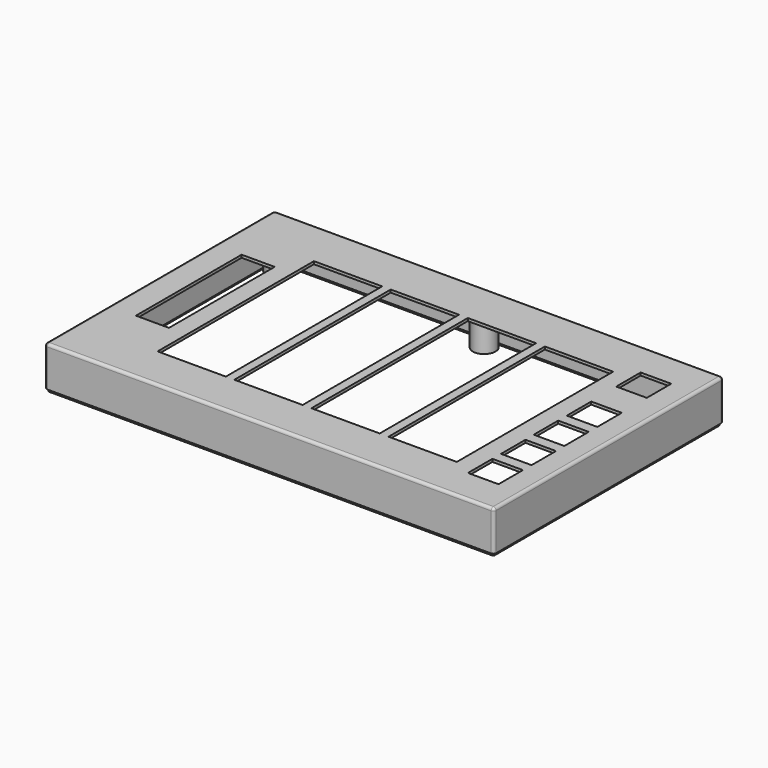
from build123d import *

# Parameters (mm, degrees)
EXTRUDE001_DEPTH  = 1.27
TUBE001_R         = 5.2324
TUBE001_R_2       = 2.2606
TUBE001_DEPTH     = 17.272
TUBE002_R         = 5.2324
TUBE002_R_2       = 2.2606
TUBE002_DEPTH     = 17.272
TUBE003_R         = 5.2324
TUBE003_R_2       = 2.2606
TUBE003_DEPTH     = 17.272
TUBE013_R         = 5.2324
TUBE013_R_2       = 2.2606
TUBE013_DEPTH     = 17.272
TUBE012_R         = 5.2324
TUBE012_R_2       = 2.2606
TUBE012_DEPTH     = 17.272
TUBE_R            = 5.2324
TUBE_R_2          = 2.2606
TUBE_DEPTH        = 17.272
BOX013_W          = 14.097
BOX013_H          = 14.097
BOX013_DEPTH      = 1.27
BOX012_W          = 14.097
BOX012_H          = 14.097
BOX012_DEPTH      = 1.27
BOX011_W          = 14.097
BOX011_H          = 14.097
BOX011_DEPTH      = 1.27
BOX010_W          = 14.097
BOX010_H          = 14.097
BOX010_DEPTH      = 1.27
BOX014_W          = 14.097
BOX014_H          = 14.097
BOX014_DEPTH      = 1.27
BOX009_W          = 15.24
BOX009_H          = 60.96
BOX009_DEPTH      = 1.27
BOX005_W          = 31.496
BOX005_H          = 90.17
BOX005_DEPTH      = 1.27
BOX006_W          = 31.496
BOX006_H          = 90.17
BOX006_DEPTH      = 1.27
BOX007_W          = 31.496
BOX007_H          = 90.17
BOX007_DEPTH      = 1.27
BOX008_W          = 31.496
BOX008_H          = 90.17
BOX008_DEPTH      = 1.27
BOX001_W          = 21.59
BOX001_H          = 5.08
BOX001_DEPTH      = 0.635
BOX002_W          = 21.59
BOX002_H          = 5.08
BOX002_DEPTH      = 0.635
BOX003_W          = 21.59
BOX003_H          = 5.08
BOX003_DEPTH      = 0.635
BOX004_W          = 21.59
BOX004_H          = 5.08
BOX004_DEPTH      = 0.635
CYLINDER_R        = 2.54
CYLINDER_DEPTH    = 0.635
CYLINDER001_R     = 2.54
CYLINDER001_DEPTH = 0.635
CYLINDER002_R     = 2.54
CYLINDER002_DEPTH = 0.635
CYLINDER003_R     = 2.54
CYLINDER003_DEPTH = 0.635
CYLINDER004_R     = 2.54
CYLINDER004_DEPTH = 0.635
CYLINDER005_R     = 2.54
CYLINDER005_DEPTH = 0.635
CYLINDER006_R     = 2.54
CYLINDER006_DEPTH = 0.635
CYLINDER007_R     = 2.54
CYLINDER007_DEPTH = 0.635
CYLINDER008_R     = 2.54
CYLINDER008_DEPTH = 0.635
CYLINDER009_R     = 2.54
CYLINDER009_DEPTH = 0.635
CYLINDER010_R     = 2.54
CYLINDER010_DEPTH = 0.635
CYLINDER011_R     = 2.54
CYLINDER011_DEPTH = 0.635
CYLINDER012_R     = 2.54
CYLINDER012_DEPTH = 0.635
CYLINDER013_R     = 2.54
CYLINDER013_DEPTH = 0.635
CYLINDER014_R     = 2.54
CYLINDER014_DEPTH = 0.635
CYLINDER015_R     = 2.54
CYLINDER015_DEPTH = 0.635
BOX_W             = 204.724
BOX_H             = 129.794
BOX_DEPTH         = 17.272
THICKNESS_T       = 1.27
BOX016_W          = 202.184
BOX016_H          = 127.254
BOX016_DEPTH      = 17.272
BOX015_W          = 204.724
BOX015_H          = 129.794
BOX015_DEPTH      = 17.272


with BuildPart() as extrude001:
    # Sketch → Extrude001 (new body)
    with BuildSketch(Plane.XY):
        with BuildLine():
            Line((47.5996, -28.0416), (252.1204, -28.0416))
            ThreePointArc((252.6284, -28.5496), (252.47961, -28.19039), (252.1204, -28.0416))
            Line((252.6284, -28.5496), (252.6284, -158.1404))
            ThreePointArc((252.1204, -158.6484), (252.47961, -158.49961), (252.6284, -158.1404))
            Line((252.1204, -158.6484), (47.5996, -158.6484))
            ThreePointArc((47.0916, -158.1404), (47.24039, -158.49961), (47.5996, -158.6484))
            Line((47.0916, -158.1404), (47.0916, -28.5496))
            ThreePointArc((47.5996, -28.0416), (47.24039, -28.19039), (47.0916, -28.5496))
        make_face()
        with BuildLine():
            Line((48.0314, -28.8544), (251.6886, -28.8544))
            ThreePointArc((251.8156, -28.9814), (251.778403, -28.891597), (251.6886, -28.8544))
            Line((251.8156, -28.9814), (251.8156, -157.7086))
            ThreePointArc((251.6886, -157.8356), (251.778403, -157.798403), (251.8156, -157.7086))
            Line((251.6886, -157.8356), (48.0314, -157.8356))
            ThreePointArc((47.9044, -157.7086), (47.941597, -157.798403), (48.0314, -157.8356))
            Line((47.9044, -157.7086), (47.9044, -28.9814))
            ThreePointArc((48.0314, -28.8544), (47.941597, -28.891597), (47.9044, -28.9814))
        make_face(mode=Mode.SUBTRACT)
    extrude(amount=EXTRUDE001_DEPTH)


with BuildPart() as extrude001_1:
    # Extrude001 placement: moved
    add(extrude001.part.moved(Location((0, 0, -1.27))))


with BuildPart() as tube001:
    # Tube001 → Tube001 (new body)
    with BuildSketch(Plane(origin=(245.11, -35.56, 0), x_dir=(1, 0, 0), z_dir=(0, 0, 1))):
        Circle(TUBE001_R)
        Circle(TUBE001_R_2, mode=Mode.SUBTRACT)
    extrude(amount=TUBE001_DEPTH)


with BuildPart() as tube002:
    # Tube002 → Tube002 (new body)
    with BuildSketch(Plane(origin=(54.61, -151.13, 0), x_dir=(1, 0, 0), z_dir=(0, 0, 1))):
        Circle(TUBE002_R)
        Circle(TUBE002_R_2, mode=Mode.SUBTRACT)
    extrude(amount=TUBE002_DEPTH)


with BuildPart() as tube003:
    # Tube003 → Tube003 (new body)
    with BuildSketch(Plane(origin=(245.11, -151.13, 0), x_dir=(1, 0, 0), z_dir=(0, 0, 1))):
        Circle(TUBE003_R)
        Circle(TUBE003_R_2, mode=Mode.SUBTRACT)
    extrude(amount=TUBE003_DEPTH)


with BuildPart() as tube013:
    # Tube013 → Tube013 (new body)
    with BuildSketch(Plane(origin=(149.86, -151.13, 0), x_dir=(1, 0, 0), z_dir=(0, 0, 1))):
        Circle(TUBE013_R)
        Circle(TUBE013_R_2, mode=Mode.SUBTRACT)
    extrude(amount=TUBE013_DEPTH)


with BuildPart() as tube012:
    # Tube012 → Tube012 (new body)
    with BuildSketch(Plane(origin=(149.86, -35.56, 0), x_dir=(1, 0, 0), z_dir=(0, 0, 1))):
        Circle(TUBE012_R)
        Circle(TUBE012_R_2, mode=Mode.SUBTRACT)
    extrude(amount=TUBE012_DEPTH)


with BuildPart() as fusion005:
    # Tube → Tube (new body)
    with BuildSketch(Plane(origin=(54.61, -35.56, 0), x_dir=(1, 0, 0), z_dir=(0, 0, 1))):
        Circle(TUBE_R)
        Circle(TUBE_R_2, mode=Mode.SUBTRACT)
    extrude(amount=TUBE_DEPTH)

    # Fusion005: union Tube001, Tube002, Tube003, Tube013, Tube012
    add(tube001.part)
    add(tube002.part)
    add(tube003.part)
    add(tube013.part)
    add(tube012.part)


with BuildPart() as cube013:
    # Box013 → Box013 (new body)
    with BuildSketch(Plane(origin=(228.346, -57.531, 17.272), x_dir=(1, 0, 0), z_dir=(0, 0, 1))):
        with Locations((7.0485, 7.0485)):
            Rectangle(BOX013_W, BOX013_H)
    extrude(amount=BOX013_DEPTH)


with BuildPart() as cube012:
    # Box012 → Box012 (new body)
    with BuildSketch(Plane(origin=(228.6, -97.536, 0), x_dir=(1, 0, 0), z_dir=(0, 0, 1))):
        with Locations((7.0485, 7.0485)):
            Rectangle(BOX012_W, BOX012_H)
    extrude(amount=BOX012_DEPTH)


with BuildPart() as cube011:
    # Box011 → Box011 (new body)
    with BuildSketch(Plane(origin=(228.473, -78.486, 0), x_dir=(1, 0, 0), z_dir=(0, 0, 1))):
        with Locations((7.0485, 7.0485)):
            Rectangle(BOX011_W, BOX011_H)
    extrude(amount=BOX011_DEPTH)


with BuildPart() as cube010:
    # Box010 → Box010 (new body)
    with BuildSketch(Plane(origin=(228.473, -59.436, 0), x_dir=(1, 0, 0), z_dir=(0, 0, 1))):
        with Locations((7.0485, 7.0485)):
            Rectangle(BOX010_W, BOX010_H)
    extrude(amount=BOX010_DEPTH)


with BuildPart() as fusion003:
    # Box014 → Box014 (new body)
    with BuildSketch(Plane(origin=(228.6, -116.586, 0), x_dir=(1, 0, 0), z_dir=(0, 0, 1))):
        with Locations((7.0485, 7.0485)):
            Rectangle(BOX014_W, BOX014_H)
    extrude(amount=BOX014_DEPTH)

    # Fusion003: union Cube012, Cube011, Cube010
    add(cube012.part)
    add(cube011.part)
    add(cube010.part)


with BuildPart() as fusion003_1:
    # Fusion003 placement: moved
    add(fusion003.part.moved(Location((0.127, -26.924, 17.272))))


with BuildPart() as cube009:
    # Box009 → Box009 (new body)
    with BuildSketch(Plane(origin=(58.674, -122.428, 17.272), x_dir=(1, 0, 0), z_dir=(0, 0, 1))):
        with Locations((7.62, 30.48)):
            Rectangle(BOX009_W, BOX009_H)
    extrude(amount=BOX009_DEPTH)


with BuildPart() as cube005:
    # Box005 → Box005 (new body)
    with BuildSketch(Plane(origin=(82.169, -139.319, 0), x_dir=(1, 0, 0), z_dir=(0, 0, 1))):
        with Locations((15.748, 45.085)):
            Rectangle(BOX005_W, BOX005_H)
    extrude(amount=BOX005_DEPTH)


with BuildPart() as cube006:
    # Box006 → Box006 (new body)
    with BuildSketch(Plane(origin=(117.602, -139.319, 0), x_dir=(1, 0, 0), z_dir=(0, 0, 1))):
        with Locations((15.748, 45.085)):
            Rectangle(BOX006_W, BOX006_H)
    extrude(amount=BOX006_DEPTH)


with BuildPart() as cube007:
    # Box007 → Box007 (new body)
    with BuildSketch(Plane(origin=(153.162, -139.319, 0), x_dir=(1, 0, 0), z_dir=(0, 0, 1))):
        with Locations((15.748, 45.085)):
            Rectangle(BOX007_W, BOX007_H)
    extrude(amount=BOX007_DEPTH)


with BuildPart() as fusion002:
    # Box008 → Box008 (new body)
    with BuildSketch(Plane(origin=(188.722, -139.319, 0), x_dir=(1, 0, 0), z_dir=(0, 0, 1))):
        with Locations((15.748, 45.085)):
            Rectangle(BOX008_W, BOX008_H)
    extrude(amount=BOX008_DEPTH)

    # Fusion002: union Cube005, Cube006, Cube007
    add(cube005.part)
    add(cube006.part)
    add(cube007.part)


with BuildPart() as fusion002_1:
    # Fusion002 placement: moved
    add(fusion002.part.moved(Location((0, 0, 17.272))))


with BuildPart() as cube001:
    # Box001 → Box001 (new body)
    with BuildSketch(Plane(origin=(86.995, -48.768, 0), x_dir=(1, 0, 0), z_dir=(0, 0, 1))):
        with Locations((10.795, 2.54)):
            Rectangle(BOX001_W, BOX001_H)
    extrude(amount=BOX001_DEPTH)


with BuildPart() as cube002:
    # Box002 → Box002 (new body)
    with BuildSketch(Plane(origin=(122.555, -48.768, 0), x_dir=(1, 0, 0), z_dir=(0, 0, 1))):
        with Locations((10.795, 2.54)):
            Rectangle(BOX002_W, BOX002_H)
    extrude(amount=BOX002_DEPTH)


with BuildPart() as cube003:
    # Box003 → Box003 (new body)
    with BuildSketch(Plane(origin=(158.115, -48.768, 0), x_dir=(1, 0, 0), z_dir=(0, 0, 1))):
        with Locations((10.795, 2.54)):
            Rectangle(BOX003_W, BOX003_H)
    extrude(amount=BOX003_DEPTH)


with BuildPart() as fusion001:
    # Box004 → Box004 (new body)
    with BuildSketch(Plane(origin=(193.675, -48.768, 0), x_dir=(1, 0, 0), z_dir=(0, 0, 1))):
        with Locations((10.795, 2.54)):
            Rectangle(BOX004_W, BOX004_H)
    extrude(amount=BOX004_DEPTH)

    # Fusion001: union Cube001, Cube002, Cube003
    add(cube001.part)
    add(cube002.part)
    add(cube003.part)


with BuildPart() as fusion001_1:
    # Fusion001 placement: moved
    add(fusion001.part.moved(Location((0, 0, 17.272))))


with BuildPart() as cylinder:
    # Cylinder → Cylinder (new body)
    with BuildSketch(Plane(origin=(83.82, -46.228, 17.272), x_dir=(1, 0, 0), z_dir=(0, 0, 1))):
        Circle(CYLINDER_R)
    extrude(amount=CYLINDER_DEPTH)


with BuildPart() as cylinder001:
    # Cylinder001 → Cylinder001 (new body)
    with BuildSketch(Plane(origin=(111.76, -46.228, 17.272), x_dir=(1, 0, 0), z_dir=(0, 0, 1))):
        Circle(CYLINDER001_R)
    extrude(amount=CYLINDER001_DEPTH)


with BuildPart() as cylinder002:
    # Cylinder002 → Cylinder002 (new body)
    with BuildSketch(Plane(origin=(119.38, -46.228, 17.272), x_dir=(1, 0, 0), z_dir=(0, 0, 1))):
        Circle(CYLINDER002_R)
    extrude(amount=CYLINDER002_DEPTH)


with BuildPart() as cylinder003:
    # Cylinder003 → Cylinder003 (new body)
    with BuildSketch(Plane(origin=(147.32, -46.228, 17.272), x_dir=(1, 0, 0), z_dir=(0, 0, 1))):
        Circle(CYLINDER003_R)
    extrude(amount=CYLINDER003_DEPTH)


with BuildPart() as cylinder004:
    # Cylinder004 → Cylinder004 (new body)
    with BuildSketch(Plane(origin=(154.94, -46.228, 17.272), x_dir=(1, 0, 0), z_dir=(0, 0, 1))):
        Circle(CYLINDER004_R)
    extrude(amount=CYLINDER004_DEPTH)


with BuildPart() as cylinder005:
    # Cylinder005 → Cylinder005 (new body)
    with BuildSketch(Plane(origin=(182.88, -46.228, 17.272), x_dir=(1, 0, 0), z_dir=(0, 0, 1))):
        Circle(CYLINDER005_R)
    extrude(amount=CYLINDER005_DEPTH)


with BuildPart() as cylinder006:
    # Cylinder006 → Cylinder006 (new body)
    with BuildSketch(Plane(origin=(190.5, -46.228, 17.272), x_dir=(1, 0, 0), z_dir=(0, 0, 1))):
        Circle(CYLINDER006_R)
    extrude(amount=CYLINDER006_DEPTH)


with BuildPart() as cylinder007:
    # Cylinder007 → Cylinder007 (new body)
    with BuildSketch(Plane(origin=(218.44, -46.228, 17.272), x_dir=(1, 0, 0), z_dir=(0, 0, 1))):
        Circle(CYLINDER007_R)
    extrude(amount=CYLINDER007_DEPTH)


with BuildPart() as cylinder008:
    # Cylinder008 → Cylinder008 (new body)
    with BuildSketch(Plane(origin=(83.82, -142.24, 17.272), x_dir=(1, 0, 0), z_dir=(0, 0, 1))):
        Circle(CYLINDER008_R)
    extrude(amount=CYLINDER008_DEPTH)


with BuildPart() as cylinder009:
    # Cylinder009 → Cylinder009 (new body)
    with BuildSketch(Plane(origin=(111.76, -142.24, 17.272), x_dir=(1, 0, 0), z_dir=(0, 0, 1))):
        Circle(CYLINDER009_R)
    extrude(amount=CYLINDER009_DEPTH)


with BuildPart() as cylinder010:
    # Cylinder010 → Cylinder010 (new body)
    with BuildSketch(Plane(origin=(119.38, -142.24, 17.272), x_dir=(1, 0, 0), z_dir=(0, 0, 1))):
        Circle(CYLINDER010_R)
    extrude(amount=CYLINDER010_DEPTH)


with BuildPart() as cylinder011:
    # Cylinder011 → Cylinder011 (new body)
    with BuildSketch(Plane(origin=(147.32, -142.24, 17.272), x_dir=(1, 0, 0), z_dir=(0, 0, 1))):
        Circle(CYLINDER011_R)
    extrude(amount=CYLINDER011_DEPTH)


with BuildPart() as cylinder012:
    # Cylinder012 → Cylinder012 (new body)
    with BuildSketch(Plane(origin=(154.94, -142.24, 17.272), x_dir=(1, 0, 0), z_dir=(0, 0, 1))):
        Circle(CYLINDER012_R)
    extrude(amount=CYLINDER012_DEPTH)


with BuildPart() as cylinder013:
    # Cylinder013 → Cylinder013 (new body)
    with BuildSketch(Plane(origin=(182.88, -142.24, 17.272), x_dir=(1, 0, 0), z_dir=(0, 0, 1))):
        Circle(CYLINDER013_R)
    extrude(amount=CYLINDER013_DEPTH)


with BuildPart() as cylinder014:
    # Cylinder014 → Cylinder014 (new body)
    with BuildSketch(Plane(origin=(190.5, -142.24, 17.272), x_dir=(1, 0, 0), z_dir=(0, 0, 1))):
        Circle(CYLINDER014_R)
    extrude(amount=CYLINDER014_DEPTH)


with BuildPart() as fusion:
    # Cylinder015 → Cylinder015 (new body)
    with BuildSketch(Plane(origin=(218.44, -142.24, 17.272), x_dir=(1, 0, 0), z_dir=(0, 0, 1))):
        Circle(CYLINDER015_R)
    extrude(amount=CYLINDER015_DEPTH)

    # Fusion: union Cylinder, Cylinder001, Cylinder002, Cylinder003, Cylinder004, Cylinder005, Cylinder006, Cylinder007, Cylinder008, Cylinder009, Cylinder010, Cylinder011, Cylinder012, Cylinder013, Cylinder014
    add(cylinder.part)
    add(cylinder001.part)
    add(cylinder002.part)
    add(cylinder003.part)
    add(cylinder004.part)
    add(cylinder005.part)
    add(cylinder006.part)
    add(cylinder007.part)
    add(cylinder008.part)
    add(cylinder009.part)
    add(cylinder010.part)
    add(cylinder011.part)
    add(cylinder012.part)
    add(cylinder013.part)
    add(cylinder014.part)


with BuildPart() as cut008:
    # Box → Box (new body)
    with BuildSketch(Plane(origin=(47.498, -158.242, 0), x_dir=(1, 0, 0), z_dir=(0, 0, 1))):
        with Locations((102.362, 64.897)):
            Rectangle(BOX_W, BOX_H)
    extrude(amount=BOX_DEPTH)

    # Thickness
    thickness_openings = [cut008.faces().sort_by_distance(p)[0] for p in [
        (149.86, -93.345, 0),
    ]]
    offset(amount=THICKNESS_T, openings=thickness_openings)

    # Cut: cut Fusion
    add(fusion.part, mode=Mode.SUBTRACT)

    # Cut001: cut Fusion001
    add(fusion001_1.part, mode=Mode.SUBTRACT)

    # Cut002: cut Fusion002
    add(fusion002_1.part, mode=Mode.SUBTRACT)

    # Cut003: cut Cube009
    add(cube009.part, mode=Mode.SUBTRACT)

    # Cut007: cut Fusion003
    add(fusion003_1.part, mode=Mode.SUBTRACT)

    # Cut008: cut Cube013
    add(cube013.part, mode=Mode.SUBTRACT)


with BuildPart() as cube016:
    # Box016 → Box016 (new body)
    with BuildSketch(Plane(origin=(48.768, -156.972, 0), x_dir=(1, 0, 0), z_dir=(0, 0, 1))):
        with Locations((101.092, 63.627)):
            Rectangle(BOX016_W, BOX016_H)
    extrude(amount=BOX016_DEPTH)


with BuildPart() as top:
    # Box015 → Box015 (new body)
    with BuildSketch(Plane(origin=(47.498, -158.242, 0), x_dir=(1, 0, 0), z_dir=(0, 0, 1))):
        with Locations((102.362, 64.897)):
            Rectangle(BOX015_W, BOX015_H)
    extrude(amount=BOX015_DEPTH)

    # Cut006: cut Cube016
    add(cube016.part, mode=Mode.SUBTRACT)

    # Fusion006: union Cut008
    add(cut008.part)

    # Fusion007: union Fusion005
    add(fusion005.part)

    # Fusion018: union Extrude001
    add(extrude001_1.part)


solid = top.part
